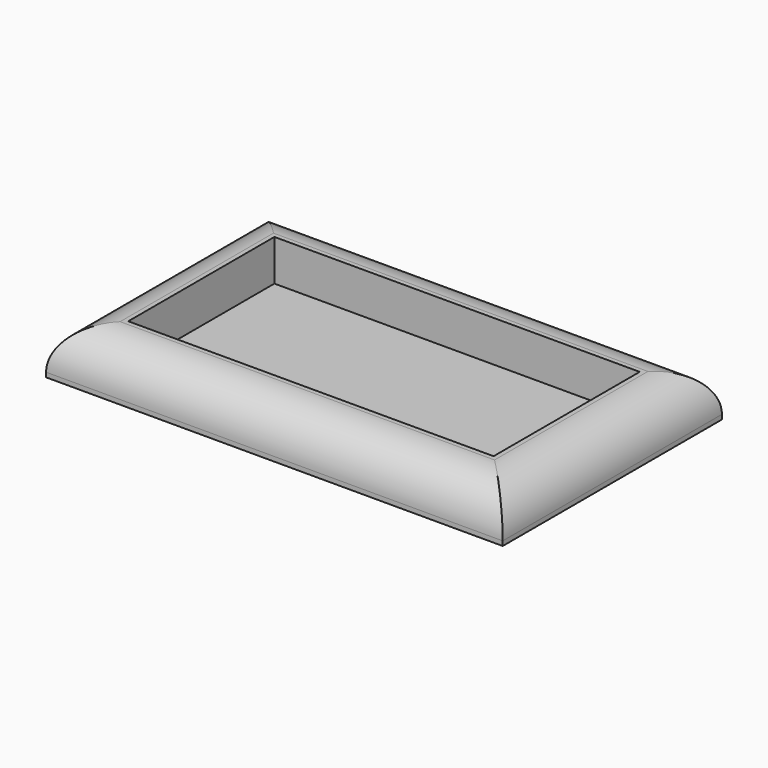
from build123d import *

# Parameters (mm, degrees)
SKETCH_W     = 100
SKETCH_H     = 60
PAD_DEPTH    = 10
FILLET_R     = 9
SKETCH001_W  = 80
SKETCH001_H  = 40
POCKET_DEPTH = 9


with BuildPart() as part:
    # Sketch → Pad (new body)
    with BuildSketch(Plane.XY):
        Rectangle(SKETCH_W, SKETCH_H)
    extrude(amount=PAD_DEPTH)

    # Fillet
    fillet_edges = [part.edges().sort_by_distance(p)[0] for p in [
        (0, -30, 10),
        (50, 0, 10),
        (0, 30, 10),
        (-50, 0, 10),
    ]]
    fillet(fillet_edges, radius=FILLET_R)

    # Sketch001 → Pocket (cut)
    with BuildSketch(Plane.XY.offset(10)):
        Rectangle(SKETCH001_W, SKETCH001_H)
    extrude(amount=-POCKET_DEPTH, mode=Mode.SUBTRACT)


solid = part.part
